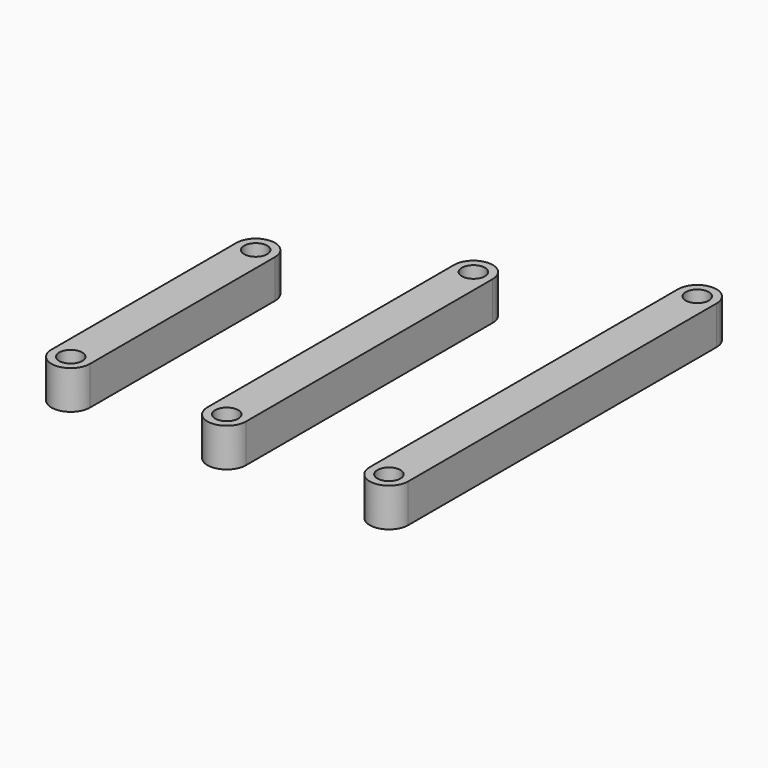
from build123d import *

# Parameters (mm, degrees)
F0_R     = 1.5
F1_DEPTH = 5


with BuildPart() as f1:
    # F0 (on Top) → F1 (new body)
    with BuildSketch(Plane.XY):
        with BuildLine():
            ThreePointArc((-14.173788, 23.130206), (-11.673788, 20.630206), (-9.173788, 23.130206))
            Line((-9.173788, 23.130206), (-9.173788, 73.130206))
            ThreePointArc((-9.173788, 73.130206), (-11.673788, 75.630206), (-14.173788, 73.130206))
            Line((-14.173788, 73.130206), (-14.173788, 23.130206))
        make_face()
        with Locations((-11.673788, 23.130206)):
            Circle(F0_R, mode=Mode.SUBTRACT)
        with Locations((-11.673788, 73.130206)):
            Circle(F0_R, mode=Mode.SUBTRACT)
        with BuildLine():
            ThreePointArc((-55.459178, 23.130206), (-52.959178, 20.630206), (-50.459178, 23.130206))
            Line((-50.459178, 23.130206), (-50.459178, 53.130206))
            ThreePointArc((-50.459178, 53.130206), (-52.959178, 55.630206), (-55.459178, 53.130206))
            Line((-55.459178, 53.130206), (-55.459178, 23.130206))
        make_face()
        with Locations((-52.959178, 23.130206)):
            Circle(F0_R, mode=Mode.SUBTRACT)
        with Locations((-52.959178, 53.130206)):
            Circle(F0_R, mode=Mode.SUBTRACT)
        with BuildLine():
            ThreePointArc((-35.218366, 23.130206), (-32.718366, 20.630206), (-30.218366, 23.130206))
            Line((-30.218366, 23.130206), (-30.218366, 63.130206))
            ThreePointArc((-30.218366, 63.130206), (-32.718366, 65.630206), (-35.218366, 63.130206))
            Line((-35.218366, 63.130206), (-35.218366, 23.130206))
        make_face()
        with Locations((-32.718366, 23.130206)):
            Circle(F0_R, mode=Mode.SUBTRACT)
        with Locations((-32.718366, 63.130206)):
            Circle(F0_R, mode=Mode.SUBTRACT)
    extrude(amount=F1_DEPTH)


solid = f1.part
